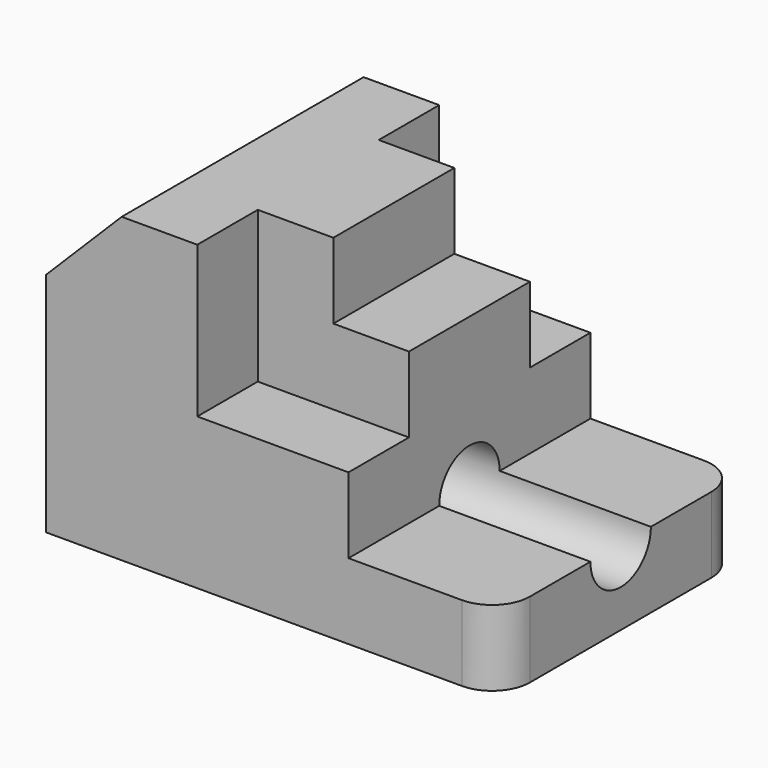
from build123d import *

# Parameters (mm, degrees)
F1_DEPTH = 25.4
F3_DEPTH = 12.7
F4_R     = 6.35
F5_DEPTH = 76.201
F6_R     = 6.35


with BuildPart() as f1:
    # F0 (on Front) → F1 (new body, symmetric)
    with BuildSketch(Plane.XZ):
        Polygon((0, 38.1), (0, 0), (76.2, 0), (76.2, 12.7), (50.8, 12.7), (50.8, 25.4), (25.4, 25.4), (25.4, 50.8), (12.7, 50.8), align=None)
    extrude(amount=F1_DEPTH, both=True)

    # F2 (on Front) → F3 (join, symmetric)
    with BuildSketch(Plane.XZ):
        Polygon((25.4, 50.8), (25.4, 25.4), (50.8, 25.4), (50.8, 38.1), (38.1, 38.1), (38.1, 50.8), align=None)
    extrude(amount=F3_DEPTH, both=True)

    # F4 (on face) → F5 (cut, through all)
    with BuildSketch(Plane.YZ.offset(76.2)):
        with Locations((0, 12.7)):
            Circle(F4_R)
    extrude(amount=-F5_DEPTH, mode=Mode.SUBTRACT)

    # F6
    f6_edges = [f1.edges().sort_by_distance(p)[0] for p in [
        (76.2, -25.4, 6.35),
        (76.2, 25.4, 6.35),
    ]]
    fillet(f6_edges, radius=F6_R)


solid = f1.part
